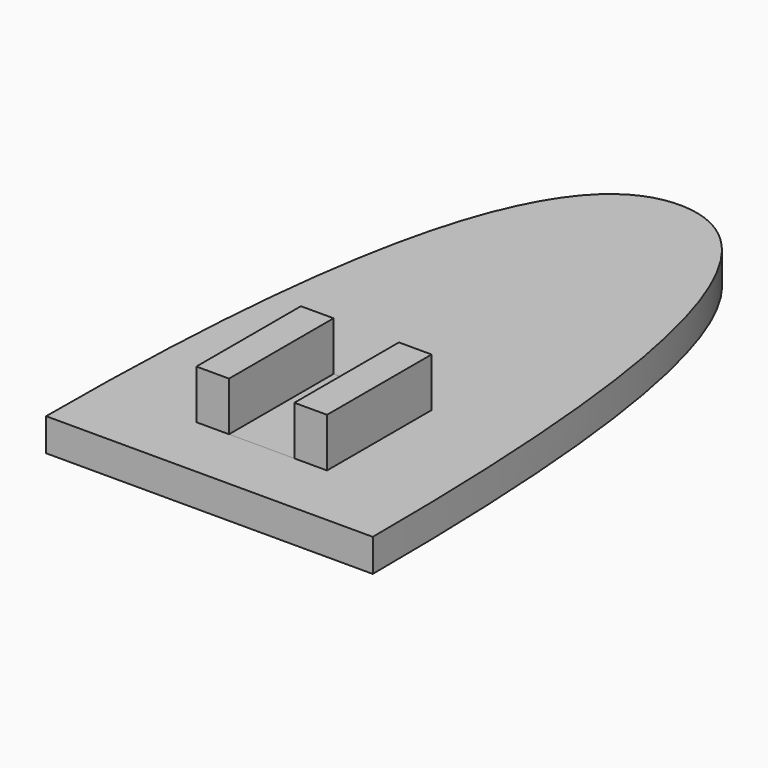
from build123d import *

# Parameters (mm, degrees)
SKETCH_W     = 6
SKETCH_H     = 6
PAD_DEPTH    = 1
PAD003_DEPTH = 1
SKETCH003_W  = 4
SKETCH003_H  = 4
PAD001_DEPTH = 1
SKETCH001_W  = 1
SKETCH001_H  = 4
PAD002_DEPTH = 1.5


with BuildPart() as square:
    # Sketch → Pad (new body)
    with BuildSketch(Plane.XY):
        Rectangle(SKETCH_W, SKETCH_H)
    extrude(amount=PAD_DEPTH)


with BuildPart() as nail:
    # Sketch002 → Pad003 (new body)
    with BuildSketch(Plane.XY):
        with BuildLine():
            add(Edge.make_bspline(
                [(-5, -4), (-5, 14), (0, 14)],
                knots=[0, 0, 0, 1, 1, 1], degree=2))
            add(Edge.make_bspline(
                [(0, 14), (5, 14), (5, -4)],
                knots=[0, 0, 0, 1, 1, 1], degree=2))
            Line((5, -4), (-5, -4))
        make_face()
    extrude(amount=PAD003_DEPTH)


with BuildPart() as connector:
    # Sketch003 → Pad001 (new body)
    with BuildSketch(Plane.XY):
        Rectangle(SKETCH003_W, SKETCH003_H)
    extrude(amount=PAD001_DEPTH)

    # Sketch001 (on Face6 of Pad) → Pad002 (join)
    with BuildSketch(Plane.XY.offset(1)):
        with Locations((-1.5, 0)):
            Rectangle(SKETCH001_W, SKETCH001_H)
        with Locations((1.5, 0)):
            Rectangle(SKETCH001_W, SKETCH001_H)
    extrude(amount=PAD002_DEPTH)


solid = Compound([square.part, nail.part, connector.part])
